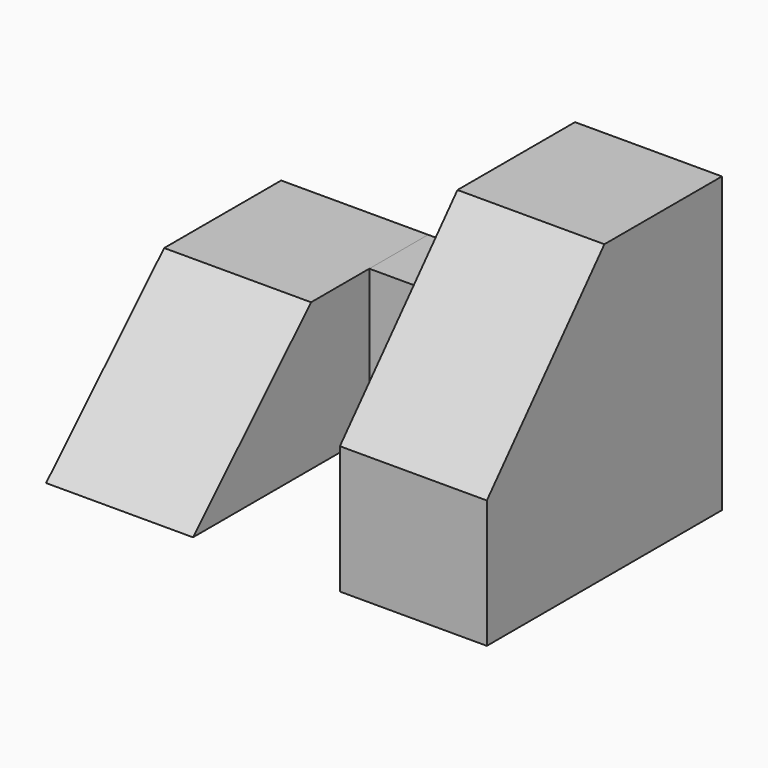
from build123d import *

# Parameters (mm, degrees)
F1_DEPTH = 12.7
F3_START = -12.7
F3_DEPTH = 12.7
F5_START = -19.05
F4_W     = 12.7
F4_H     = 12.7
F5_DEPTH = 6.35


with BuildPart() as f1:
    # F0 (on Right) → F1 (new body)
    with BuildSketch(Plane.YZ):
        Polygon((0, 11.0641479859), (0, 0), (25.4, 0), (25.4, 25.4), (12.7, 25.4), align=None)
    extrude(amount=F1_DEPTH)


with BuildPart() as f3:
    # F2 (on Right) → F3 (new body)
    with BuildSketch(Plane.YZ.offset(F3_START)):
        Polygon((0, 0), (25.4, 0), (25.4, 12.7), (12.75798229, 12.7), align=None)
    extrude(amount=-F3_DEPTH)


with BuildPart() as f5:
    # F4 (on Front) → F5 (new body)
    with BuildSketch(Plane.XZ.offset(F5_START)):
        with Locations((-6.35, 6.35)):
            Rectangle(F4_W, F4_H)
    extrude(amount=-F5_DEPTH)


solid = Compound([f1.part, f3.part, f5.part])
